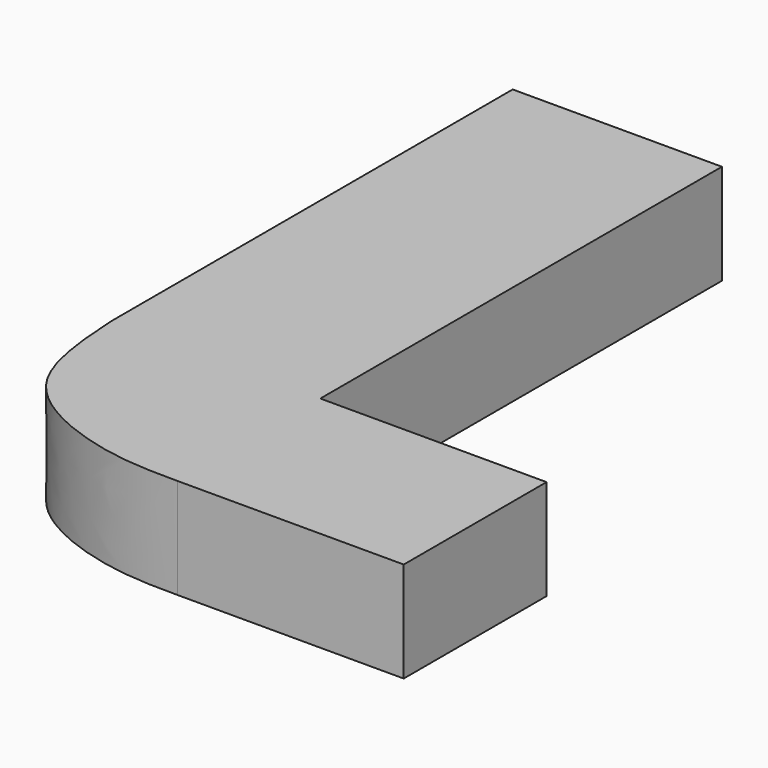
from build123d import *

# Parameters (mm, degrees)
F0_W     = 26.4671653574
F0_H     = 63.5
F0_W_2   = 28.6158758655
F0_H_2   = 22.5822602804
F1_DEPTH = 12.7


with BuildPart() as f1:
    # F0 (on Top) → F1 (new body)
    with BuildSketch(Plane.XY):
        with BuildLine():
            Line((0, -22.5822602804), (0, 0))
            Line((0, 0), (-26.4671653574, 0))
            add(Edge.make_bspline(
                [(-26.4671653574, 0), (-26.1630881045, -4.6341759472), (-25.6754890937, -15.5996049321), (-11.8765848614, -22.0286266603), (-4.90557852, -22.6224596747), (0, -22.5822602804)],
                knots=[0, 0, 0, 0, 0.3478654684, 0.6788256362, 1, 1, 1, 1], degree=3))
        make_face()
        with Locations((-13.2335826787, 31.75)):
            Rectangle(F0_W, F0_H)
        with Locations((14.3079379328, -11.2911301402)):
            Rectangle(F0_W_2, F0_H_2)
    extrude(amount=F1_DEPTH)


solid = f1.part
